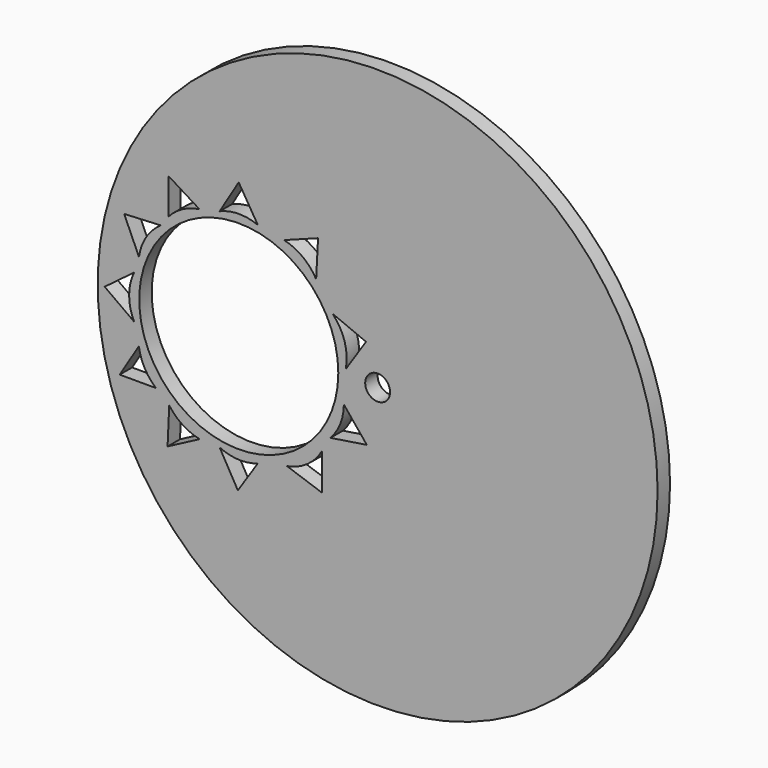
from build123d import *

# Parameters (mm, degrees)
F0_R     = 57.15
F0_R_2   = 20.32
F0_R_3   = 2.54
F1_DEPTH = 3.175


with BuildPart() as f1:
    # F0 (on Front) → F1 (new body)
    with BuildSketch(Plane.XZ):
        Circle(F0_R)
        with BuildLine():
            Line((-42.883825, -24.53093), (-42.543459, -17.032195))
            ThreePointArc((-42.543459, -17.032195), (-39.820724, -19.644048), (-36.333463, -21.084213))
            Line((-36.333463, -21.084213), (-42.883825, -24.53093))
        make_face(mode=Mode.SUBTRACT)
        with BuildLine():
            Line((-52.656993, -14.806859), (-48.735586, -8.406121))
            ThreePointArc((-48.735586, -8.406121), (-47.587931, -11.928695), (-45.255162, -14.806859))
            Line((-45.255162, -14.806859), (-52.656993, -14.806859))
        make_face(mode=Mode.SUBTRACT)
        with BuildLine():
            Line((-28.536372, -27.7573), (-32.257507, -21.238095))
            ThreePointArc((-32.257507, -21.238095), (-28.390723, -22.188544), (-24.455277, -21.582207))
            Line((-24.455277, -21.582207), (-28.536372, -27.7573))
        make_face(mode=Mode.SUBTRACT)
        with BuildLine():
            Line((-11.408226, -22.576399), (-18.505276, -20.131249))
            ThreePointArc((-18.505276, -20.131249), (-14.403329, -18.445306), (-11.408226, -15.174568))
            Line((-11.408226, -15.174568), (-11.408226, -22.576399))
        make_face(mode=Mode.SUBTRACT)
        with BuildLine():
            Line((-2.212769, -11.019517), (-9.630398, -12.170889))
            ThreePointArc((-9.630398, -12.170889), (-7.613739, -8.986542), (-6.894672, -5.286552))
            Line((-6.894672, -5.286552), (-2.212769, -11.019517))
        make_face(mode=Mode.SUBTRACT)
        with BuildLine():
            Line((-55.724405, 0), (-49.719241, 4.503874))
            ThreePointArc((-49.719241, 4.503874), (-50.727289, 0.088311), (-49.719241, -4.327252))
            Line((-49.719241, -4.327252), (-55.724405, 0))
        make_face(mode=Mode.SUBTRACT)
        with BuildLine():
            Line((-51.745173, 14.383817), (-44.247499, 14.746812))
            ThreePointArc((-44.247499, 14.746812), (-47.252569, 11.671197), (-48.718844, 7.628934))
            Line((-48.718844, 7.628934), (-51.745173, 14.383817))
        make_face(mode=Mode.SUBTRACT)
        with BuildLine():
            Line((-42.743142, 24.165609), (-36.361622, 20.213004))
            ThreePointArc((-36.361622, 20.213004), (-39.870209, 19.076412), (-42.743142, 16.763777))
            Line((-42.743142, 16.763777), (-42.743142, 24.165609))
        make_face(mode=Mode.SUBTRACT)
        with Locations((-28.347915, 0)):
            Circle(F0_R_2, mode=Mode.SUBTRACT)
        with BuildLine():
            Line((-2.37326, 7.45949), (-6.511062, 1.196466))
            ThreePointArc((-6.511062, 1.196466), (-6.73835, 6.076043), (-9.213608, 10.287341))
            Line((-9.213608, 10.287341), (-2.37326, 7.45949))
        make_face(mode=Mode.SUBTRACT)
        with BuildLine():
            Line((-12.167714, 22.883349), (-12.55219, 15.386746))
            ThreePointArc((-12.55219, 15.386746), (-15.311854, 18.527025), (-19.101316, 20.292545))
            Line((-19.101316, 20.292545), (-12.167714, 22.883349))
        make_face(mode=Mode.SUBTRACT)
        with BuildLine():
            Line((-28.363025, 27.663627), (-24.455277, 21.25454))
            ThreePointArc((-24.455277, 21.25454), (-28.363025, 21.998871), (-32.257507, 21.18799))
            Line((-32.257507, 21.18799), (-28.363025, 27.663627))
        make_face(mode=Mode.SUBTRACT)
        Circle(F0_R_3, mode=Mode.SUBTRACT)
    extrude(amount=F1_DEPTH)


solid = f1.part
